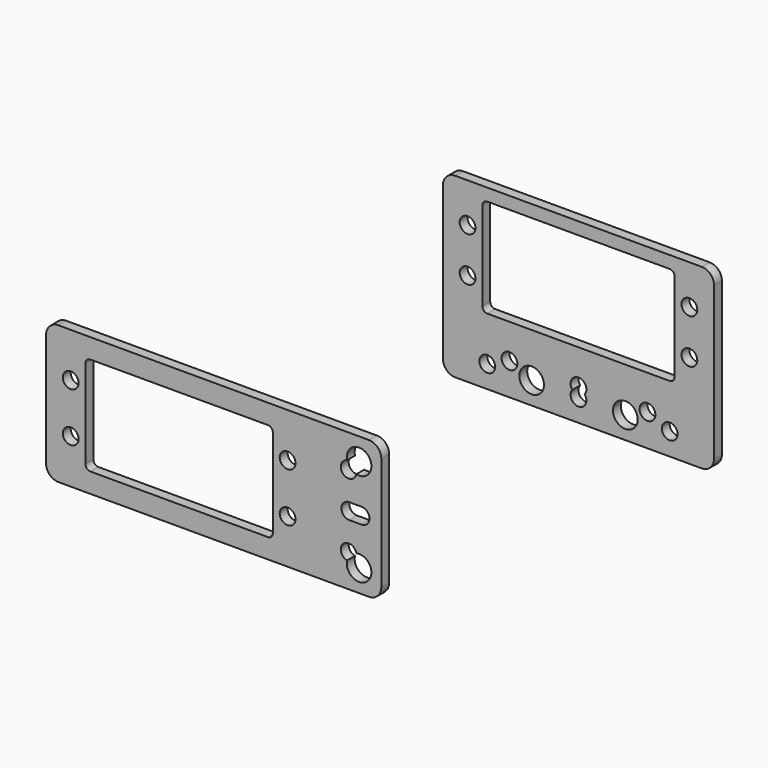
from build123d import *

# Parameters (mm, degrees)
F0_R     = 1.6
F0_R_2   = 2.5
F1_DEPTH = 2
F2_DEPTH = 2


with BuildPart() as f1:
    # F0 (on Front) → F1 (new body)
    with BuildSketch(Plane.XZ):
        with BuildLine():
            Line((136.636076, 87.288132), (86.636076, 87.288132))
            ThreePointArc((86.636076, 87.288132), (84.868309, 86.555899), (84.136076, 84.788132))
            Line((84.136076, 84.788132), (84.136076, 53.788132))
            ThreePointArc((84.136076, 53.788132), (84.868309, 52.020365), (86.636076, 51.288132))
            Line((86.636076, 51.288132), (136.636076, 51.288132))
            ThreePointArc((136.636076, 51.288132), (138.403843, 52.020365), (139.136076, 53.788132))
            Line((139.136076, 53.788132), (139.136076, 84.788132))
            ThreePointArc((139.136076, 84.788132), (138.403843, 86.555899), (136.636076, 87.288132))
        make_face()
        with Locations((93.136076, 55.788132)):
            Circle(F0_R, mode=Mode.SUBTRACT)
        with Locations((102.136076, 55.788132)):
            Circle(F0_R_2, mode=Mode.SUBTRACT)
        with Locations((97.636076, 57.788132)):
            Circle(F0_R, mode=Mode.SUBTRACT)
        with BuildLine():
            ThreePointArc((110.387077, 56.788132), (111.636076, 59.388132), (112.885076, 56.788132))
            ThreePointArc((112.885076, 56.788132), (111.636076, 54.188132), (110.387077, 56.788132))
        make_face(mode=Mode.SUBTRACT)
        with Locations((121.136076, 55.788132)):
            Circle(F0_R_2, mode=Mode.SUBTRACT)
        with Locations((130.136076, 55.788132)):
            Circle(F0_R, mode=Mode.SUBTRACT)
        with Locations((125.636076, 57.788132)):
            Circle(F0_R, mode=Mode.SUBTRACT)
        with Locations((89.136076, 70.288132)):
            Circle(F0_R, mode=Mode.SUBTRACT)
        with Locations((89.136076, 79.288132)):
            Circle(F0_R, mode=Mode.SUBTRACT)
        with BuildLine():
            Line((93.136076, 84.788132), (130.136076, 84.788132))
            ThreePointArc((130.136076, 84.788132), (130.843183, 84.495238), (131.136076, 83.788132))
            Line((131.136076, 83.788132), (131.136076, 65.788132))
            ThreePointArc((131.136076, 65.788132), (130.843183, 65.081025), (130.136076, 64.788132))
            Line((130.136076, 64.788132), (93.136076, 64.788132))
            ThreePointArc((93.136076, 64.788132), (92.428969, 65.081025), (92.136076, 65.788132))
            Line((92.136076, 65.788132), (92.136076, 83.788132))
            ThreePointArc((92.136076, 83.788132), (92.428969, 84.495238), (93.136076, 84.788132))
        make_face(mode=Mode.SUBTRACT)
        with Locations((134.136076, 70.288132)):
            Circle(F0_R, mode=Mode.SUBTRACT)
        with Locations((134.136076, 79.288132)):
            Circle(F0_R, mode=Mode.SUBTRACT)
    extrude(amount=F1_DEPTH)


with BuildPart() as f2:
    # F0 (on Front) → F2 (new body)
    with BuildSketch(Plane.XZ):
        with BuildLine():
            Line((69.131041, 34.401994), (6.131041, 34.401994))
            ThreePointArc((6.131041, 34.401994), (4.363274, 33.669761), (3.631041, 31.901994))
            Line((3.631041, 31.901994), (3.631041, 8.901994))
            ThreePointArc((3.631041, 8.901994), (4.363274, 7.134227), (6.131041, 6.401994))
            Line((6.131041, 6.401994), (69.131041, 6.401994))
            ThreePointArc((69.131041, 6.401994), (70.898808, 7.134227), (71.631041, 8.901994))
            Line((71.631041, 8.901994), (71.631041, 31.901994))
            ThreePointArc((71.631041, 31.901994), (70.898808, 33.669761), (69.131041, 34.401994))
        make_face()
        with Locations((8.631041, 15.401994)):
            Circle(F0_R, mode=Mode.SUBTRACT)
        with Locations((8.631041, 25.401994)):
            Circle(F0_R, mode=Mode.SUBTRACT)
        with BuildLine():
            Line((12.631041, 30.401994), (48.631041, 30.401994))
            ThreePointArc((48.631041, 30.401994), (49.338148, 30.109101), (49.631041, 29.401994))
            Line((49.631041, 29.401994), (49.631041, 11.401994))
            ThreePointArc((49.631041, 11.401994), (49.338148, 10.694887), (48.631041, 10.401994))
            Line((48.631041, 10.401994), (12.631041, 10.401994))
            ThreePointArc((12.631041, 10.401994), (11.923934, 10.694887), (11.631041, 11.401994))
            Line((11.631041, 11.401994), (11.631041, 29.401994))
            ThreePointArc((11.631041, 29.401994), (11.923934, 30.109101), (12.631041, 30.401994))
        make_face(mode=Mode.SUBTRACT)
        with Locations((52.631041, 15.401994)):
            Circle(F0_R, mode=Mode.SUBTRACT)
        with BuildLine():
            ThreePointArc((66.578053, 13.340068), (68.898808, 9.134227), (64.692967, 11.454982))
            ThreePointArc((64.692967, 11.454982), (63.87835, 14.154685), (66.578053, 13.340068))
        make_face(mode=Mode.SUBTRACT)
        with Locations((52.631041, 25.401994)):
            Circle(F0_R, mode=Mode.SUBTRACT)
        with BuildLine():
            ThreePointArc((65.131041, 18.801994), (63.531041, 20.401994), (65.131041, 22.001994))
            Line((65.131041, 22.001994), (67.631041, 22.001994))
            ThreePointArc((67.631041, 22.001994), (69.231041, 20.401994), (67.631041, 18.801994))
            Line((67.631041, 18.801994), (65.131041, 18.801994))
        make_face(mode=Mode.SUBTRACT)
        with BuildLine():
            ThreePointArc((64.692967, 29.349006), (68.898808, 31.669761), (66.578053, 27.46392))
            ThreePointArc((66.578053, 27.46392), (63.87835, 26.649303), (64.692967, 29.349006))
        make_face(mode=Mode.SUBTRACT)
    extrude(amount=F2_DEPTH)


solid = Compound([f1.part, f2.part])
